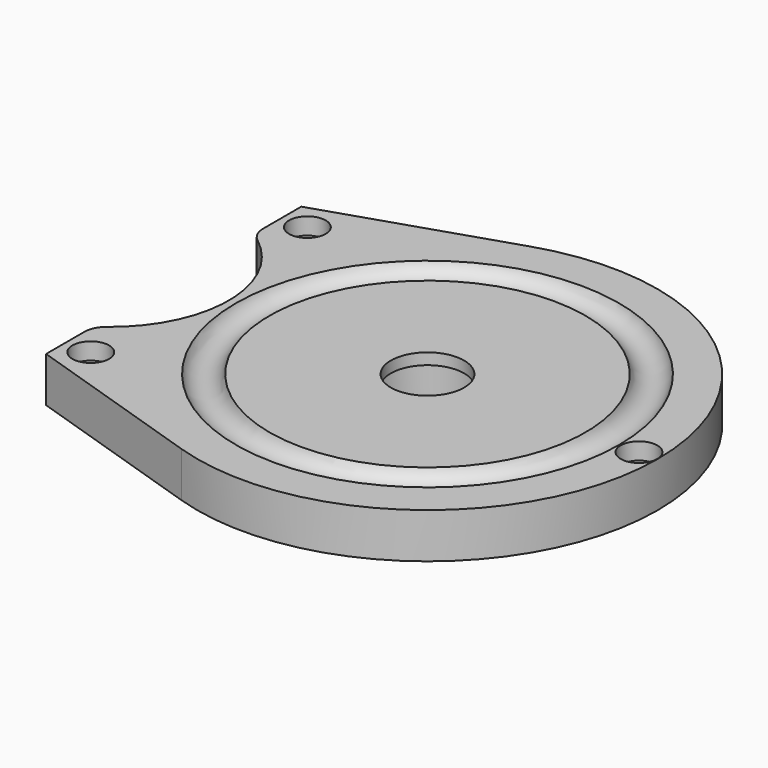
from build123d import *

# Parameters (mm, degrees)
F0_R            = 40.8
F1_DEPTH        = 8
F4_R            = 3.15
F8_DEPTH        = 8
F9_R            = 21
F10_DEPTH       = 8.001
F11_R           = 4
F13_D           = 3.3
F13_CBORE_D     = 6.5
F13_CBORE_DEPTH = 3


with BuildPart() as f1:
    # F0 (on Top) → F1 (new body)
    with BuildSketch(Plane.XY):
        Circle(F0_R)
    extrude(amount=F1_DEPTH)

    # F2 (on Right) → F3 (revolve, cut)
    with BuildSketch(Plane.YZ):
        Polygon((0, 8), (0, 0), (8.65, 0), (8.65, 6), (6.5, 6), (6.5, 8), align=None)
    revolve(axis=Axis((0, 0, 10.7360328796), (0, 0, 1)), mode=Mode.SUBTRACT)

    # F4 (on Right) → F5 (revolve, cut)
    with BuildSketch(Plane.YZ):
        with Locations((31, 9)):
            Circle(F4_R)
    revolve(axis=Axis((0, 0, 6.3867427816), (0, 0, 1)), mode=Mode.SUBTRACT)

    # F7 (on Top) → F8 (join, through all)
    with BuildSketch(Plane.XY):
        with BuildLine():
            Line((-45, 28.2782724184), (-45, -28.2782724184))
            Line((-45, -28.2782724184), (-12.6078933705, -38.8031058648))
            ThreePointArc((-12.6078933705, -38.8031058648), (-26.2059585661, -31.2711965814), (-36, -19.2))
            Line((-36, -19.2), (-36, 19.2))
            ThreePointArc((-36, 19.2), (-26.2059585661, 31.2711965814), (-12.6078933705, 38.8031058648))
            Line((-12.6078933705, 38.8031058648), (-45, 28.2782724184))
        make_face()
    extrude(amount=F8_DEPTH)

    # F9 (on face) → F10 (cut, through all)
    with BuildSketch(Plane.XY.offset(8)):
        with Locations((-56.25, 0)):
            Circle(F9_R)
    extrude(amount=-F10_DEPTH, mode=Mode.SUBTRACT)

    # F11
    f11_edges = [f1.edges().sort_by_distance(p)[0] for p in [
        (-45, 17.732386, 4),
        (-45, -17.732386, 4),
    ]]
    fillet(f11_edges, radius=F11_R)

    # F13 (through all)
    with Locations(Plane.XY.offset(8)):
        with Locations((-40.5, 24), (-40.5, -24), (37.5, 0)):
            CounterBoreHole(F13_D / 2, F13_CBORE_D / 2, F13_CBORE_DEPTH)


solid = f1.part
